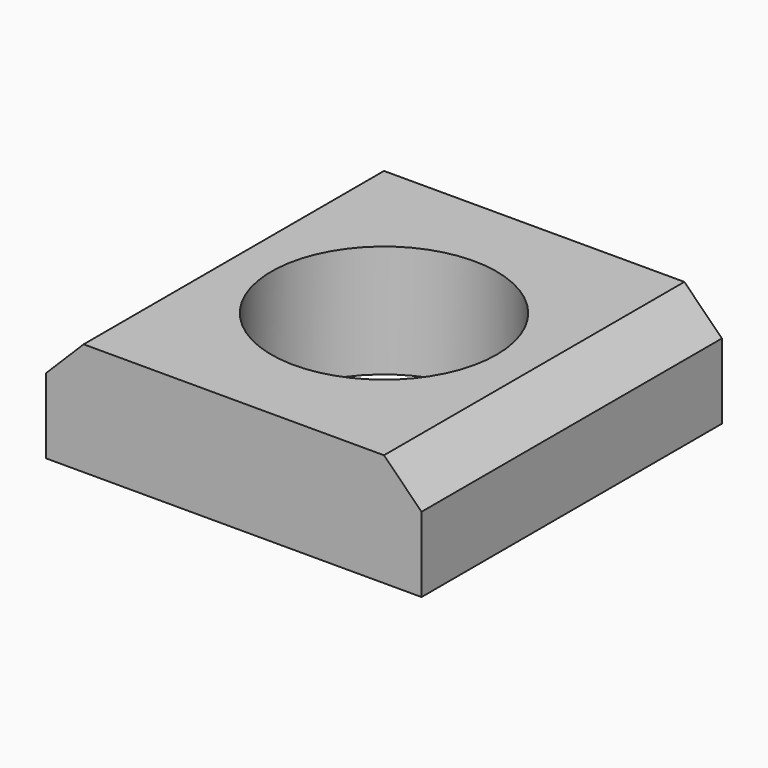
from build123d import *

# Parameters (mm, degrees)
SKETCH_W        = 10
SKETCH_H        = 10
SKETCH_R        = 3
PAD_DEPTH       = 3
CHAMFER_SIZE    = 1
CHAMFER001_SIZE = 1


with BuildPart() as part:
    # Sketch → Pad (new body)
    with BuildSketch(Plane.XY):
        with Locations((5, 5)):
            Rectangle(SKETCH_W, SKETCH_H)
        with Locations((5, 5)):
            Circle(SKETCH_R, mode=Mode.SUBTRACT)
    extrude(amount=PAD_DEPTH)

    # Chamfer
    chamfer_edges = [part.edges().sort_by_distance(p)[0] for p in [
        (0, 5, 3),
    ]]
    chamfer(chamfer_edges, length=CHAMFER_SIZE)

    # Chamfer001
    chamfer001_edges = [part.edges().sort_by_distance(p)[0] for p in [
        (10, 5, 3),
    ]]
    chamfer(chamfer001_edges, length=CHAMFER001_SIZE)


solid = part.part
